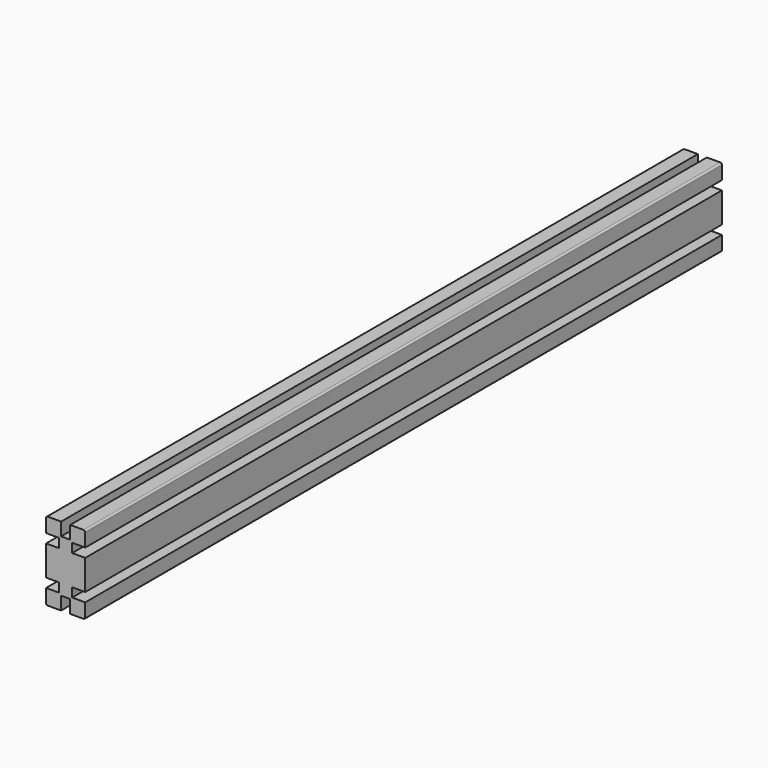
from build123d import *

# Parameters (mm, degrees)
F0_W     = 45
F0_H     = 90
F1_DEPTH = 457.2
F2_W     = 914.4
F2_H     = 10.4
F3_DEPTH = 15
F4_W     = 914.4
F4_H     = 10.4
F5_DEPTH = 15
F6_W     = 10.4
F6_H     = 914.4
F7_DEPTH = 15
F8_W     = 10.4
F8_H     = 914.4
F9_DEPTH = 15
F10_R    = 2


with BuildPart() as f1:
    # F0 (on Front) → F1 (new body, symmetric)
    with BuildSketch(Plane.XZ):
        Rectangle(F0_W, F0_H)
    extrude(amount=F1_DEPTH, both=True)

    # F2 (on face) → F3 (cut)
    with BuildSketch(Plane.YZ.offset(22.5)):
        with Locations((0, 22.5)):
            Rectangle(F2_W, F2_H)
        with Locations((0, -22.5)):
            Rectangle(F2_W, F2_H)
    extrude(amount=-F3_DEPTH, mode=Mode.SUBTRACT)

    # F4 (on face) → F5 (cut)
    with BuildSketch(Plane(origin=(-22.5, 0, 0), x_dir=(0, -1, 0), z_dir=(-1, 0, 0))):
        with Locations((0, 22.5)):
            Rectangle(F4_W, F4_H)
        with Locations((0, -22.5)):
            Rectangle(F4_W, F4_H)
    extrude(amount=-F5_DEPTH, mode=Mode.SUBTRACT)

    # F6 (on face) → F7 (cut)
    with BuildSketch(Plane.XY.offset(45)):
        Rectangle(F6_W, F6_H)
    extrude(amount=-F7_DEPTH, mode=Mode.SUBTRACT)

    # F8 (on face) → F9 (cut)
    with BuildSketch(Plane(origin=(0, 0, -45), x_dir=(1, 0, 0), z_dir=(0, 0, -1))):
        Rectangle(F8_W, F8_H)
    extrude(amount=-F9_DEPTH, mode=Mode.SUBTRACT)

    # F10
    f10_edges = [f1.edges().sort_by_distance(p)[0] for p in [
        (22.5, 0, 45),
        (-22.5, 0, 45),
        (22.5, 0, -45),
        (-22.5, 0, -45),
    ]]
    fillet(f10_edges, radius=F10_R)


solid = f1.part
